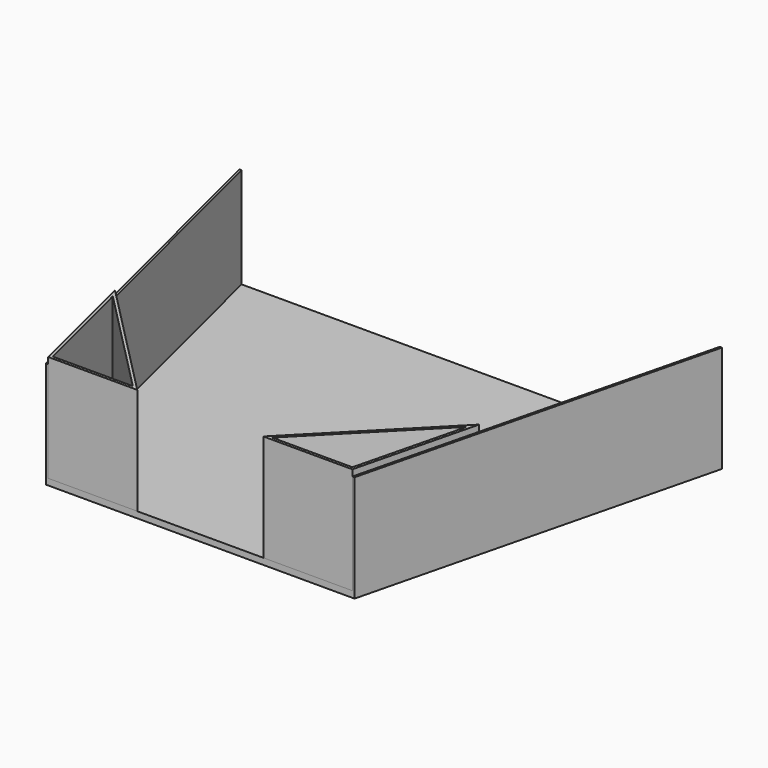
from build123d import *

# Parameters (mm, degrees)
F1_DEPTH = 152.4
F3_DEPTH = 143.4084
F5_DEPTH = 152.4


with BuildPart() as f1:
    # F0 (on Top) → F1 (new body)
    with BuildSketch(Plane.XY):
        Polygon((344.17, 0), (-344.17, 0), (-220, -500), (220, -500), align=None)
    extrude(amount=F1_DEPTH)

    # F2 (on face) → F3 (cut)
    with BuildSketch(Plane.XY.offset(152.4)):
        Polygon((-341.258439, 0.723057), (-216.908875, -500), (216.908875, -500), (341.258439, 0.723057), align=None)
    extrude(amount=-F3_DEPTH, mode=Mode.SUBTRACT)


with BuildPart() as f5:
    # F4 (on face) → F5 (new body)
    with BuildSketch(Plane.XY.offset(8.9916)):
        Polygon((89.908875, -500), (216.908875, -500), (259.762059, -327.441475), align=None)
        Polygon((213.780735, -496), (99.458849, -496), (252.355985, -340.667591), align=None, mode=Mode.SUBTRACT)
        Polygon((-259.762059, -327.441475), (-216.908875, -500), (-89.908875, -500), align=None)
        Polygon((-252.355985, -340.667591), (-99.458849, -496), (-213.780735, -496), align=None, mode=Mode.SUBTRACT)
    extrude(amount=F5_DEPTH)


solid = Compound([f1.part, f5.part])
